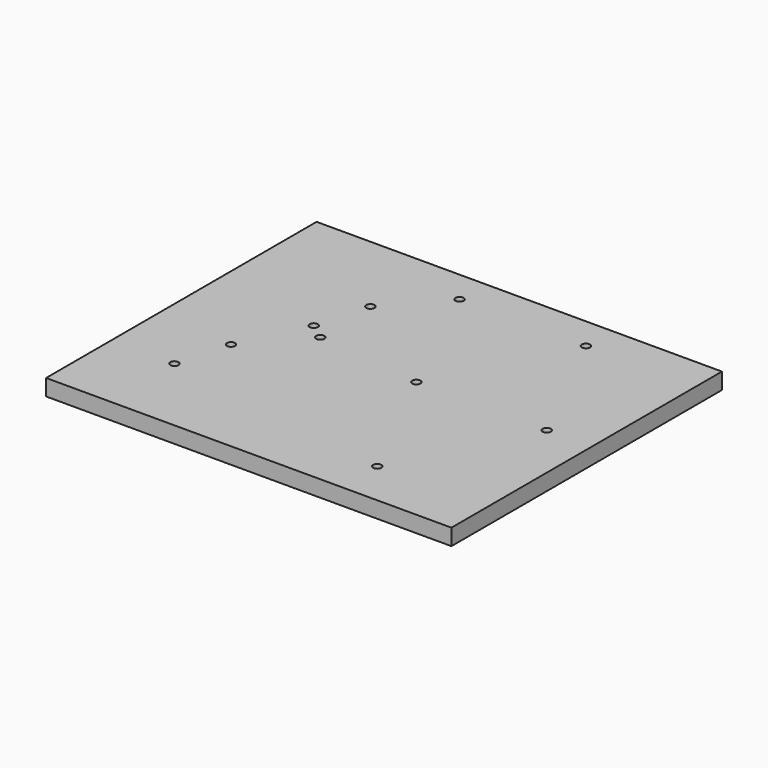
from build123d import *

# Parameters (mm, degrees)
F0_W     = 153.1874
F0_H     = 127
F0_R     = 1.5875
F1_DEPTH = 3.175
F2_DEPTH = 3.175


with BuildPart() as f1:
    # F0 (on Top) → F1 (new body)
    with BuildSketch(Plane.XY):
        Polygon((76.5937, 63.5), (76.5937, -63.5), (-76.5937, -63.5), (-76.5937, -68.2625), (81.3562, -68.2625), (81.3562, 63.5), align=None)
        Rectangle(F0_W, F0_H)
        with Locations((-51.98999, -36.501629)):
            Circle(F0_R, mode=Mode.SUBTRACT)
        with Locations((-46.4312, -15.875)):
            Circle(F0_R, mode=Mode.SUBTRACT)
        with Locations((38.4937, -50.8)):
            Circle(F0_R, mode=Mode.SUBTRACT)
        with Locations((-28.17241, 4.751629)):
            Circle(F0_R, mode=Mode.SUBTRACT)
        with Locations((-34.52749, 9.535871)):
            Circle(F0_R, mode=Mode.SUBTRACT)
        with Locations((-28.9687, 30.1625)):
            Circle(F0_R, mode=Mode.SUBTRACT)
        with Locations((-10.70991, 50.789129)):
            Circle(F0_R, mode=Mode.SUBTRACT)
        with Locations((13.0937, 0)):
            Circle(F0_R, mode=Mode.SUBTRACT)
        with Locations((63.8937, 0)):
            Circle(F0_R, mode=Mode.SUBTRACT)
        with Locations((38.4937, 50.8)):
            Circle(F0_R, mode=Mode.SUBTRACT)
    extrude(amount=F1_DEPTH)

    # F0 (on Top) → F2 (join)
    with BuildSketch(Plane.XY):
        Polygon((76.5937, 63.5), (76.5937, -63.5), (-76.5937, -63.5), (-76.5937, -68.2625), (81.3562, -68.2625), (81.3562, 63.5), align=None)
    extrude(amount=-F2_DEPTH)


solid = f1.part
